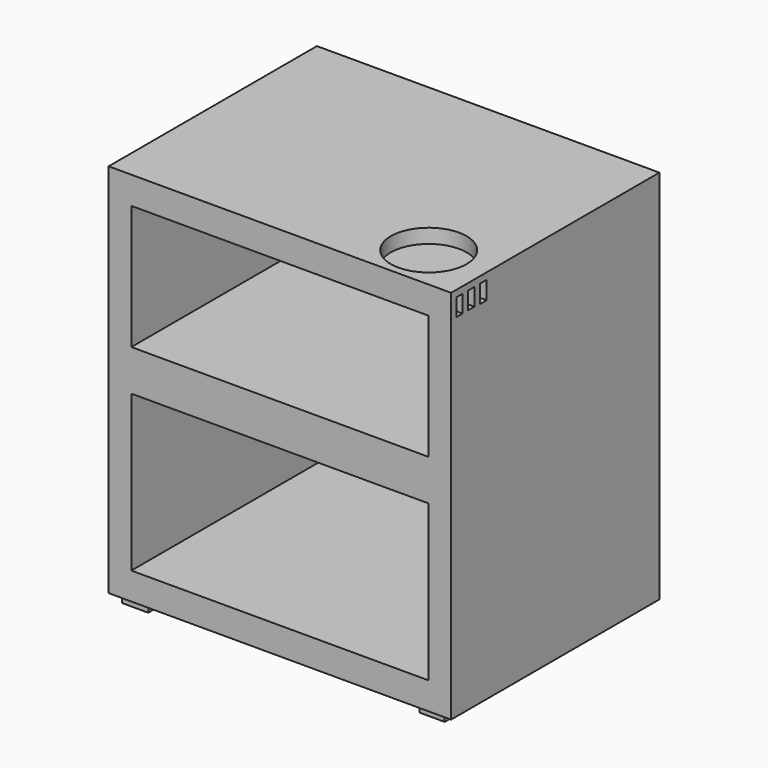
from build123d import *

# Parameters (mm, degrees)
F0_W     = 58.472368
F0_H     = 64.15464
F1_DEPTH = 44.45
F2_W     = 50.716958
F2_H     = 26.597259
F2_H_2   = 21.220153
F3_DEPTH = 42.926
F4_W     = 4.469927
F4_H     = 4.469931
F4_W_2   = 4.624061
F4_H_2   = 4.46993
F4_W_3   = 4.007522
F4_W_4   = 4.31579
F4_H_3   = 4.315794
F5_DEPTH = 1.524
F6_R     = 6.469246
F7_DEPTH = 2.4384
F8_W     = 1.37474
F8_H     = 3.070258
F8_W_2   = 1.374744
F8_H_2   = 2.978608
F8_W_3   = 1.328919
F9_DEPTH = 2.794


with BuildPart() as f1:
    # F0 (on Front) → F1 (new body)
    with BuildSketch(Plane.XZ):
        Rectangle(F0_W, F0_H)
    extrude(amount=F1_DEPTH)

    # F2 (on face) → F3 (cut)
    with BuildSketch(Plane.XZ.offset(44.45)):
        with Locations((0, -14.125422)):
            Rectangle(F2_W, F2_H)
        with Locations((0, 16.780822)):
            Rectangle(F2_W, F2_H_2)
    extrude(amount=-F3_DEPTH, mode=Mode.SUBTRACT)

    # F4 (on face) → F5 (join)
    with BuildSketch(Plane(origin=(0, 0, -32.07732), x_dir=(1, 0, 0), z_dir=(0, 0, -1))):
        with Locations((-25.636799, 41.048552)):
            Rectangle(F4_W, F4_H)
        with Locations((-25.636799, 3.747775)):
            Rectangle(F4_W_2, F4_H_2)
        with Locations((24.996694, 3.747775)):
            Rectangle(F4_W_3, F4_H_2)
        with Locations((24.996694, 41.048553)):
            Rectangle(F4_W_4, F4_H_3)
    extrude(amount=F5_DEPTH)

    # F6 (on face) → F7 (cut)
    with BuildSketch(Plane.XY.offset(32.07732)):
        with Locations((19.203754, -36.686223)):
            Circle(F6_R)
    extrude(amount=-F7_DEPTH, mode=Mode.SUBTRACT)

    # F8 (on face) → F9 (cut)
    with BuildSketch(Plane.YZ.offset(29.236184)):
        with Locations((-37.546458, 29.409513)):
            Rectangle(F8_W, F8_H)
        with Locations((-40.158469, 29.455338)):
            Rectangle(F8_W_2, F8_H_2)
        with Locations((-42.655916, 29.455338)):
            Rectangle(F8_W_3, F8_H_2)
    extrude(amount=-F9_DEPTH, mode=Mode.SUBTRACT)


solid = f1.part
